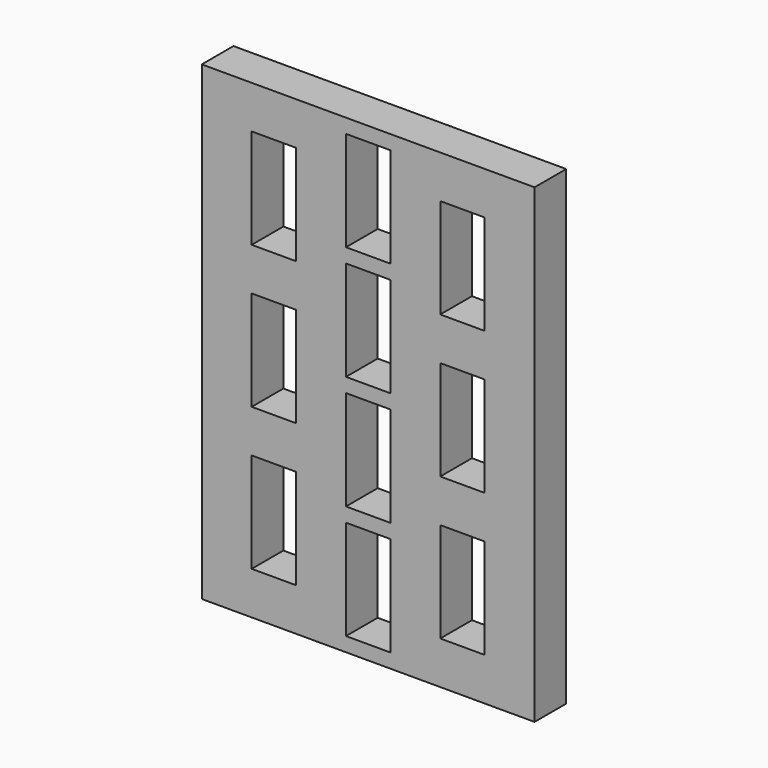
from build123d import *

# Parameters (mm, degrees)
F0_W     = 210
F0_H     = 297
F0_W_2   = 28
F0_H_2   = 63
F1_DEPTH = 25


with BuildPart() as f1:
    # F0 (on Front) → F1 (new body)
    with BuildSketch(Plane.XZ):
        Rectangle(F0_W, F0_H)
        with Locations((-59.5, -90)):
            Rectangle(F0_W_2, F0_H_2, mode=Mode.SUBTRACT)
        with Locations((0, -108)):
            Rectangle(F0_W_2, F0_H_2, mode=Mode.SUBTRACT)
        with Locations((59.5, -90)):
            Rectangle(F0_W_2, F0_H_2, mode=Mode.SUBTRACT)
        with Locations((0, -36)):
            Rectangle(F0_W_2, F0_H_2, mode=Mode.SUBTRACT)
        with Locations((-59.5, 0)):
            Rectangle(F0_W_2, F0_H_2, mode=Mode.SUBTRACT)
        with Locations((-59.5, 90)):
            Rectangle(F0_W_2, F0_H_2, mode=Mode.SUBTRACT)
        with Locations((0, 36)):
            Rectangle(F0_W_2, F0_H_2, mode=Mode.SUBTRACT)
        with Locations((59.5, 0)):
            Rectangle(F0_W_2, F0_H_2, mode=Mode.SUBTRACT)
        with Locations((0, 108)):
            Rectangle(F0_W_2, F0_H_2, mode=Mode.SUBTRACT)
        with Locations((59.5, 90)):
            Rectangle(F0_W_2, F0_H_2, mode=Mode.SUBTRACT)
    extrude(amount=F1_DEPTH)


solid = f1.part
